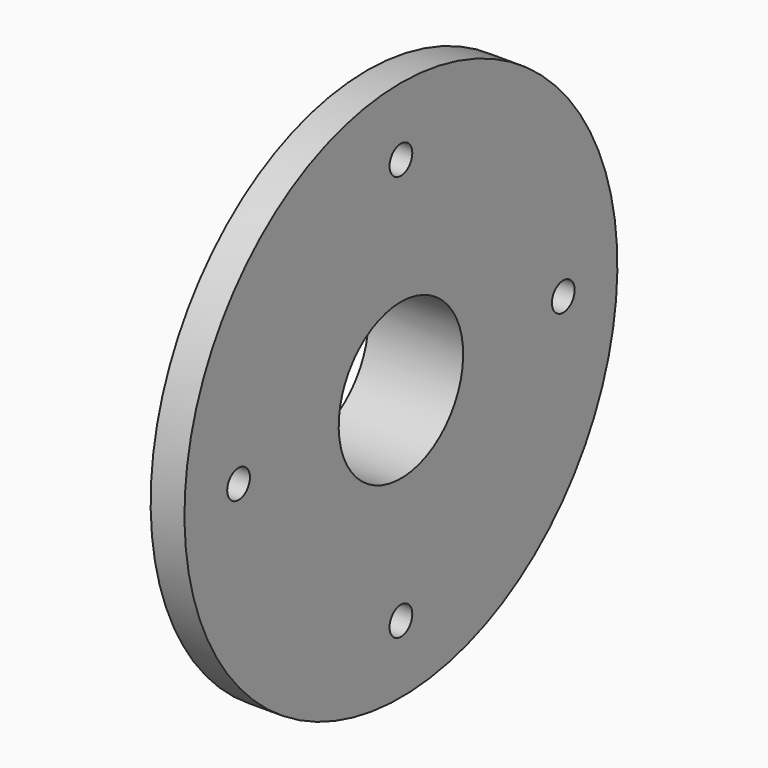
from build123d import *

# Parameters (mm, degrees)
SKETCH001_R        = 2.1
HOLE_DEPTH         = 233.001
POLARPATTERN_COUNT = 4


with BuildPart() as part:
    # Sketch → Revolution (revolve)
    with BuildSketch(Plane.XZ):
        Polygon((0, 11.5), (14, 11.5), (14, 40), (9, 40), (9, 19), (0, 19), align=None)
    revolve(axis=Axis((0, 0, 0), (1, 0, 0)))

    # Sketch001 (on Face4 of Revolution) → Hole (cut, through all)
    with BuildSketch(Plane(origin=(9, 0, 0), x_dir=(0, 0, -1), z_dir=(-1, 0, 0))):
        with Locations((30, 0)):
            Circle(SKETCH001_R)
    hole = extrude(amount=-HOLE_DEPTH, mode=Mode.SUBTRACT)

    # PolarPattern: Hole ×4 about axis
    polarpattern_axis = Axis((9, 0, 0), (-1, 0, 0))
    for i in range(1, POLARPATTERN_COUNT):
        add(hole.rotate(polarpattern_axis, i * 360 / POLARPATTERN_COUNT), mode=Mode.SUBTRACT)


solid = part.part
